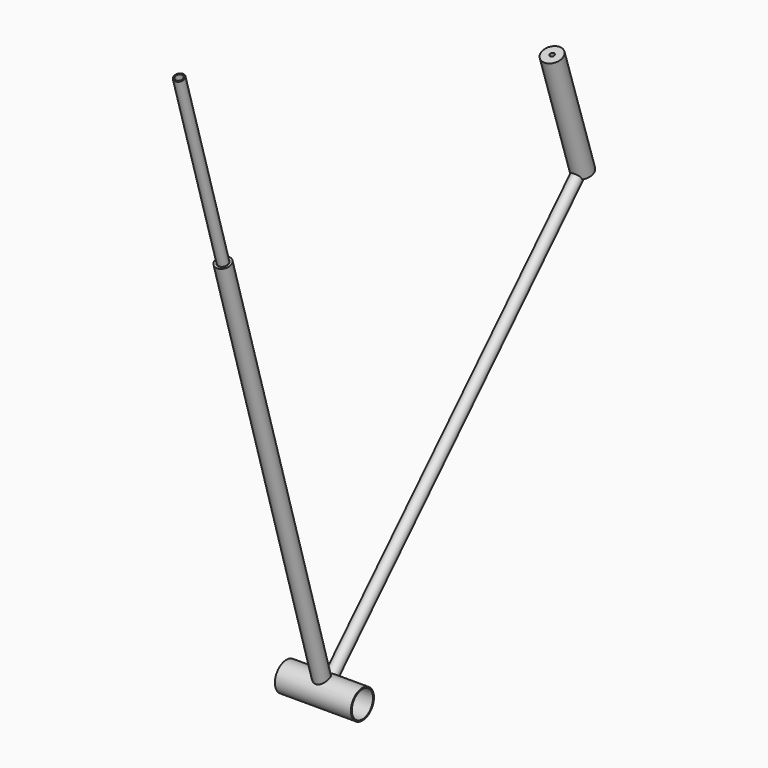
from build123d import *

# Parameters (mm, degrees)
F1_DEPTH      = 50
F1_DEPTH_BACK = 50
F4_R          = 6.6498858901
F4_R_2        = 4.9338425648
F5_DEPTH      = 254


with BuildPart() as f1:
    # F0 (on Right) → F1 (new body, two sides)
    with BuildSketch(Plane.YZ) as f1_sk:
        with BuildLine():
            Line((-17.2175823491, 2.9685486809), (-18.7237421991, 3.2282314136))
            ThreePointArc((-18.7237421991, 3.2282314136), (-1.6200151568, -18.9308095678), (19, 0))
            ThreePointArc((19, 0), (17.5056067439, 7.3860498596), (13.2575018392, 13.6102404455))
            Line((13.2575018392, 13.6102404455), (12.1910527944, 12.5154166923))
            ThreePointArc((12.1910527944, 12.5154166923), (16.0974351429, 6.7919073195), (17.4716176474, 0))
            ThreePointArc((17.4716176474, 0), (-1.4896992317, -17.407992975), (-17.2175823491, 2.9685486809))
        make_face()
        with BuildLine():
            ThreePointArc((13.2575018392, 13.6102404455), (-5.8665555314, 18.0716221241), (-18.7237421991, 3.2282314136))
            Line((-18.7237421991, 3.2282314136), (-17.2175823491, 2.9685486809))
            ThreePointArc((-17.2175823491, 2.9685486809), (-5.3946429027, 16.6179195801), (12.1910527944, 12.5154166923))
            Line((12.1910527944, 12.5154166923), (13.2575018392, 13.6102404455))
        make_face()
    extrude(amount=-F1_DEPTH)
    extrude(f1_sk.sketch, amount=F1_DEPTH_BACK)

    # F2 (on Right) → F3 (revolve)
    with BuildSketch(Plane.YZ):
        Polygon((3.2197641066, 13.7768141966), (6.0962233112, 14.6288602307), (-157.2125998935, 565.9502077799), (-160.0890590981, 565.0981617458), align=None)
    revolve(axis=Axis((0, -73.843989623, 249.2931310657), (0, -0.2840153447, 0.9588197349)))

    # F6 (on Right) → F7 (revolve)
    with BuildSketch(Plane.YZ):
        Polygon((427.166134119, 431.7882955074), (15.5095142238, 9.1788442143), (17.4662787467, 7.2727934457), (429.122898642, 429.8822447389), align=None)
    revolve(axis=Axis((0, 209.7269668516, 215.3071130135), (0, 0.6977632547, 0.7163284445)))

    # F8 (on Right) → F9 (revolve)
    with BuildSketch(Plane.YZ):
        Polygon((427.5671455208, 429.7524078395), (437.2774958611, 432.9074919224), (386.9578340125, 587.7754867899), (377.2474836722, 584.620402707), align=None)
    revolve(axis=Axis((0, 399.72135955, 505.9154786964), (0, 0.3090169944, -0.9510565163)))


with BuildPart() as f5:
    # F4 (on face) → F5 (new body)
    with BuildSketch(Plane(origin=(0, -166.8007972422, 563.1100543329), x_dir=(1, 0, 0), z_dir=(0, -0.2840153447, 0.9588197349))):
        Circle(F4_R)
        Circle(F4_R_2, mode=Mode.SUBTRACT)
    extrude(amount=F5_DEPTH)


solid = Compound([f1.part, f5.part])
